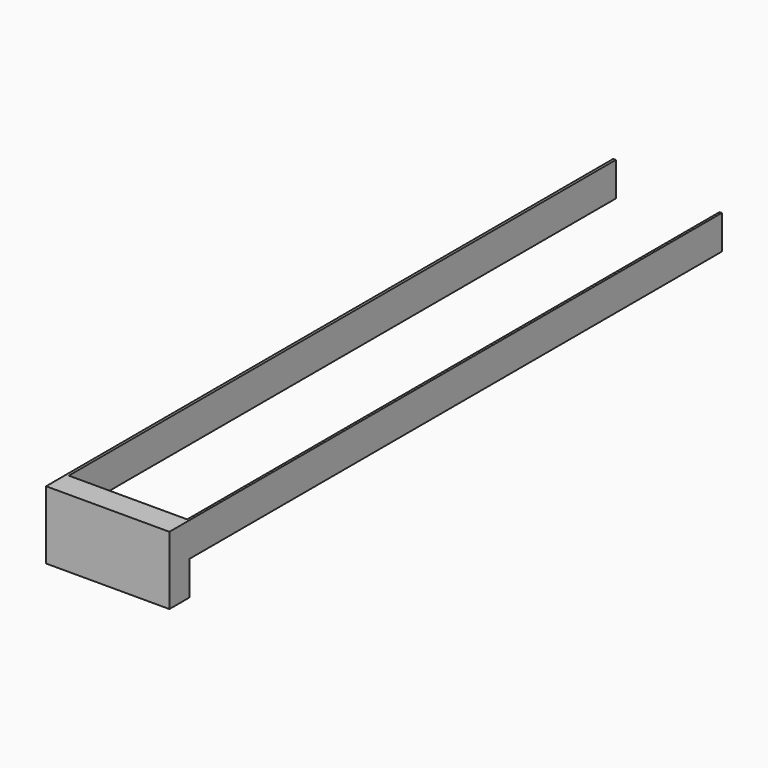
from build123d import *

# Parameters (mm, degrees)
F0_W     = 1.9742772416
F0_H     = 18.7233856638
F0_W_2   = 88.3857645094
F0_W_3   = 1.7149582489
F1_DEPTH = 25.4
F3_D     = 3
F0_H_2   = 510.4961821119
F0_H_3   = 496.8783685247
F4_DEPTH = 25.4


with BuildPart() as f1:
    # F0 (on Top) → F1 (new body)
    with BuildSketch(Plane.XY):
        with Locations((-46.5922877409, 9.3616928319)):
            Rectangle(F0_W, F0_H)
        with Locations((-1.4122668654, 9.3616928319)):
            Rectangle(F0_W_2, F0_H)
        with Locations((43.6380945138, 9.3616928319)):
            Rectangle(F0_W_3, F0_H)
    extrude(amount=-F1_DEPTH)

    # F3 (through all)
    with Locations(Plane.XY):
        with Locations((3.7512294251, 10.0710503428), (-3.3089503626, 10.1887194856), (-12.4521386383, 10.1791908965)):
            Hole(F3_D / 2)

    # F0 (on Top) → F4 (join)
    with BuildSketch(Plane.XY):
        with Locations((-46.5922877409, 273.9714767198)):
            Rectangle(F0_W, F0_H_2)
        with Locations((-46.5922877409, 9.3616928319)):
            Rectangle(F0_W, F0_H)
        with Locations((-1.4122668654, 9.3616928319)):
            Rectangle(F0_W_2, F0_H)
        with Locations((43.6380945138, 267.1625699262)):
            Rectangle(F0_W_3, F0_H_3)
        with Locations((43.6380945138, 9.3616928319)):
            Rectangle(F0_W_3, F0_H)
    extrude(amount=F4_DEPTH)


solid = f1.part
